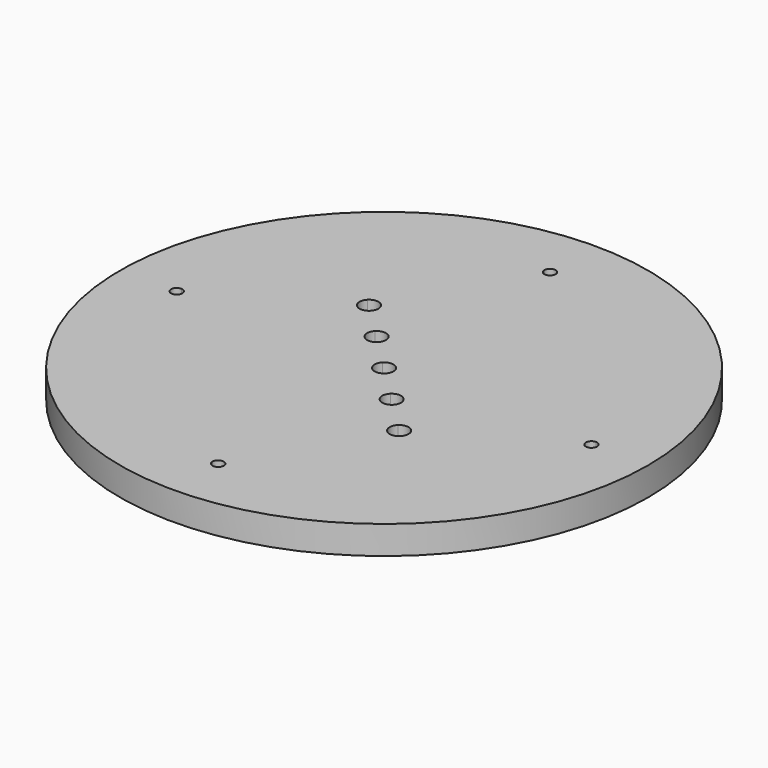
from build123d import *

# Parameters (mm, degrees)
F0_R     = 140
F1_DEPTH = 15
F3_DEPTH = 15.001
F5_DEPTH = 15.001


with BuildPart() as f1:
    # F0 (on Top) → F1 (new body)
    with BuildSketch(Plane.XY):
        Circle(F0_R)
    extrude(amount=F1_DEPTH)

    # F2 (on face) → F3 (cut, through all)
    with BuildSketch(Plane.XY.offset(15)):
        with BuildLine():
            ThreePointArc((-107, 0), (-107.8642650828, 2.1068071491), (-109.9590909091, 2.9997210614))
            ThreePointArc((-109.9590909091, 2.9997210614), (-110, 0), (-109.9590909091, -2.9997210614))
            ThreePointArc((-109.9590909091, -2.9997210614), (-107.8642650828, -2.1068071491), (-107, 0))
        make_face()
        with BuildLine():
            ThreePointArc((-109.9590909091, -2.9997210614), (-110, 0), (-109.9590909091, 2.9997210614))
            ThreePointArc((-109.9590909091, 2.9997210614), (-113, 0), (-109.9590909091, -2.9997210614))
        make_face()
        with BuildLine():
            ThreePointArc((-2.9997210614, 109.9590909091), (0, 110), (2.9997210614, 109.9590909091))
            ThreePointArc((2.9997210614, 109.9590909091), (2.9999302645, 109.9795449791), (3, 110))
            ThreePointArc((3, 110), (-0.0204550209, 112.9999302645), (-2.9997210614, 109.9590909091))
        make_face()
        with BuildLine():
            ThreePointArc((-2.9997210614, 109.9590909091), (0, 107), (2.9997210614, 109.9590909091))
            ThreePointArc((2.9997210614, 109.9590909091), (0, 110), (-2.9997210614, 109.9590909091))
        make_face()
        with BuildLine():
            ThreePointArc((-2.9997210614, -109.9590909091), (0, -110), (2.9997210614, -109.9590909091))
            ThreePointArc((2.9997210614, -109.9590909091), (0, -107), (-2.9997210614, -109.9590909091))
        make_face()
        with BuildLine():
            ThreePointArc((3, -110), (2.9999302645, -109.9795449791), (2.9997210614, -109.9590909091))
            ThreePointArc((2.9997210614, -109.9590909091), (0, -110), (-2.9997210614, -109.9590909091))
            ThreePointArc((-2.9997210614, -109.9590909091), (-0.0204550209, -112.9999302645), (3, -110))
        make_face()
        with BuildLine():
            ThreePointArc((109.9590909091, -2.9997210614), (109.9897722518, -1.5), (110, 0))
            ThreePointArc((110, 0), (109.9897722518, 1.5), (109.9590909091, 2.9997210614))
            ThreePointArc((109.9590909091, 2.9997210614), (107, 0), (109.9590909091, -2.9997210614))
        make_face()
        with BuildLine():
            ThreePointArc((109.9590909091, 2.9997210614), (109.9897722518, 1.5), (110, 0))
            ThreePointArc((110, 0), (109.9897722518, -1.5), (109.9590909091, -2.9997210614))
            ThreePointArc((109.9590909091, -2.9997210614), (112.1068071491, -2.1357349172), (113, 0))
            ThreePointArc((113, 0), (112.1068071491, 2.1357349172), (109.9590909091, 2.9997210614))
        make_face()
    extrude(amount=-F3_DEPTH, mode=Mode.SUBTRACT)

    # F4 (on face) → F5 (cut, through all)
    with BuildSketch(Plane.XY.offset(15)):
        with BuildLine():
            Line((3.5355339059, -3.5355339059), (0, 0))
            Line((0, 0), (-3.5355339059, 3.5355339059))
            ThreePointArc((-3.5355339059, 3.5355339059), (-3.5355339059, -3.5355339059), (3.5355339059, -3.5355339059))
        make_face()
        with BuildLine():
            Line((-3.5355339059, 3.5355339059), (0, 0))
            Line((0, 0), (3.5355339059, -3.5355339059))
            ThreePointArc((3.5355339059, -3.5355339059), (4.6193976626, -1.9134171618), (5, 0))
            ThreePointArc((5, 0), (1.9134171618, 4.6193976626), (-3.5355339059, 3.5355339059))
        make_face()
        with BuildLine():
            ThreePointArc((-43.5355339059, 43.5355339059), (-43.5355339059, 36.4644660941), (-36.4644660941, 36.4644660941))
            Line((-36.4644660941, 36.4644660941), (-43.5355339059, 43.5355339059))
        make_face()
        with BuildLine():
            Line((-43.5355339059, 43.5355339059), (-36.4644660941, 36.4644660941))
            ThreePointArc((-36.4644660941, 36.4644660941), (-35.3806023374, 38.0865828382), (-35, 40))
            ThreePointArc((-35, 40), (-38.0865828382, 44.6193976626), (-43.5355339059, 43.5355339059))
        make_face()
        with BuildLine():
            ThreePointArc((-23.5355339059, 23.5355339059), (-23.5355339059, 16.4644660941), (-16.4644660941, 16.4644660941))
            Line((-16.4644660941, 16.4644660941), (-23.5355339059, 23.5355339059))
        make_face()
        with BuildLine():
            Line((-23.5355339059, 23.5355339059), (-16.4644660941, 16.4644660941))
            ThreePointArc((-16.4644660941, 16.4644660941), (-15.3806023374, 18.0865828382), (-15, 20))
            ThreePointArc((-15, 20), (-18.0865828382, 24.6193976626), (-23.5355339059, 23.5355339059))
        make_face()
        with BuildLine():
            ThreePointArc((45, -40), (41.9134171618, -35.3806023374), (36.4644660941, -36.4644660941))
            Line((36.4644660941, -36.4644660941), (43.5355339059, -43.5355339059))
            ThreePointArc((43.5355339059, -43.5355339059), (44.6193976626, -41.9134171618), (45, -40))
        make_face()
        with BuildLine():
            Line((43.5355339059, -43.5355339059), (36.4644660941, -36.4644660941))
            ThreePointArc((36.4644660941, -36.4644660941), (36.4644660941, -43.5355339059), (43.5355339059, -43.5355339059))
        make_face()
        with BuildLine():
            ThreePointArc((25, -20), (21.9134171618, -15.3806023374), (16.4644660941, -16.4644660941))
            Line((16.4644660941, -16.4644660941), (23.5355339059, -23.5355339059))
            ThreePointArc((23.5355339059, -23.5355339059), (24.6193976626, -21.9134171618), (25, -20))
        make_face()
        with BuildLine():
            Line((23.5355339059, -23.5355339059), (16.4644660941, -16.4644660941))
            ThreePointArc((16.4644660941, -16.4644660941), (16.4644660941, -23.5355339059), (23.5355339059, -23.5355339059))
        make_face()
    extrude(amount=-F5_DEPTH, mode=Mode.SUBTRACT)


solid = f1.part
